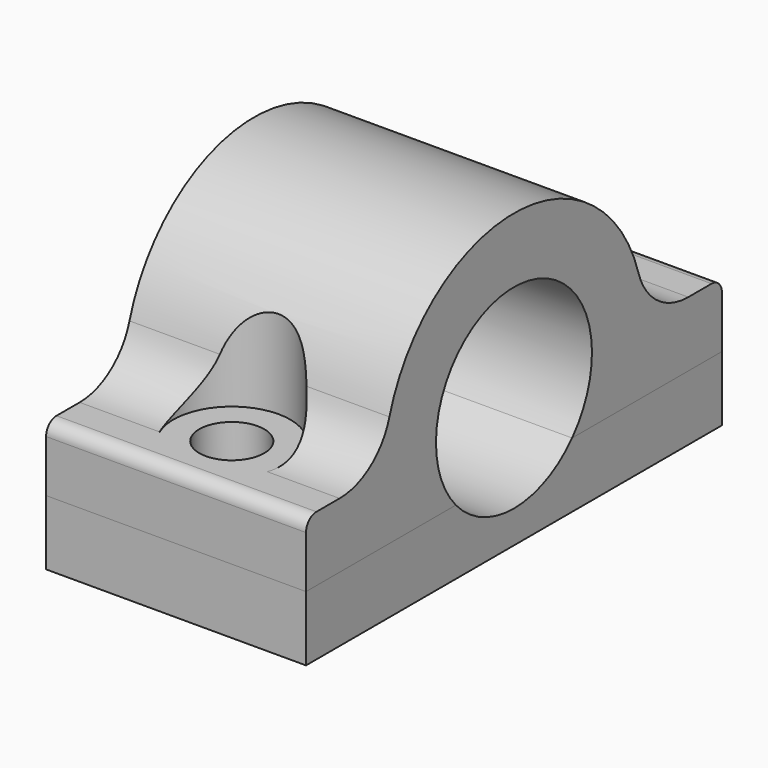
from build123d import *

# Parameters (mm, degrees)
F0_W      = 20
F0_H      = 40
F1_DEPTH  = 5
F3_DEPTH  = 20
F4_R      = 7.5
F5_DEPTH  = 20
F6_R      = 5
F7_R      = 2.5
F8_DEPTH  = 12.5
F9_R      = 4.5
F10_DEPTH = 8
F11_R     = 1


with BuildPart() as f1:
    # F0 (on Top) → F1 (new body)
    with BuildSketch(Plane.XY):
        with Locations((-0.29059, 0)):
            Rectangle(F0_W, F0_H)
    extrude(amount=F1_DEPTH)


with BuildPart() as f3:
    # F2 (on face) → F3 (new body, through all)
    with BuildSketch(Plane.YZ.offset(9.70941)):
        with BuildLine():
            Line((-20, 10), (-20, 5))
            Line((-20, 5), (20, 5))
            Line((20, 5), (20, 10))
            Line((20, 10), (12.5, 10))
            ThreePointArc((12.5, 10), (0, 22.5), (-12.5, 10))
            Line((-12.5, 10), (-20, 10))
        make_face()
    extrude(amount=-F3_DEPTH)


with BuildPart() as f5_tool:
    # F4 (on face) → F5 (new body, through all)
    with BuildSketch(Plane.YZ.offset(9.70941)):
        with Locations((0, 10)):
            Circle(F4_R)
    extrude(amount=-F5_DEPTH)


with BuildPart() as f1_1:
    add(f1.part)

    # F5: cut by f5_tool
    add(f5_tool.part, mode=Mode.SUBTRACT)


with BuildPart() as f3_1:
    add(f3.part)

    # F5: cut by f5_tool
    add(f5_tool.part, mode=Mode.SUBTRACT)

    # F6
    f6_edges = [f3_1.edges().sort_by_distance(p)[0] for p in [
        (-0.29059, 12.5, 10),
        (-0.29059, -12.5, 10),
    ]]
    fillet(f6_edges, radius=F6_R)


with BuildPart() as f8_tool:
    # F7 (on face) → F8 (new body, symmetric)
    with BuildSketch(Plane.XY.offset(10)):
        with Locations((0, 15)):
            Circle(F7_R)
        with Locations((0, -15)):
            Circle(F7_R)
    extrude(amount=F8_DEPTH, both=True)


with BuildPart() as f1_2:
    add(f1_1.part)

    # F8: cut by f8_tool
    add(f8_tool.part, mode=Mode.SUBTRACT)


with BuildPart() as f3_2:
    add(f3_1.part)

    # F8: cut by f8_tool
    add(f8_tool.part, mode=Mode.SUBTRACT)

    # F9 (on face) → F10 (cut)
    with BuildSketch(Plane.XY.offset(10)):
        with Locations((0, -15)):
            Circle(F9_R)
        with Locations((0, 15)):
            Circle(F9_R)
    extrude(amount=F10_DEPTH, mode=Mode.SUBTRACT)

    # F11
    f11_edges = [f3_2.edges().sort_by_distance(p)[0] for p in [
        (-0.29059, 20, 10),
        (-0.29059, -20, 10),
    ]]
    fillet(f11_edges, radius=F11_R)


solid = Compound([f1_2.part, f3_2.part])
